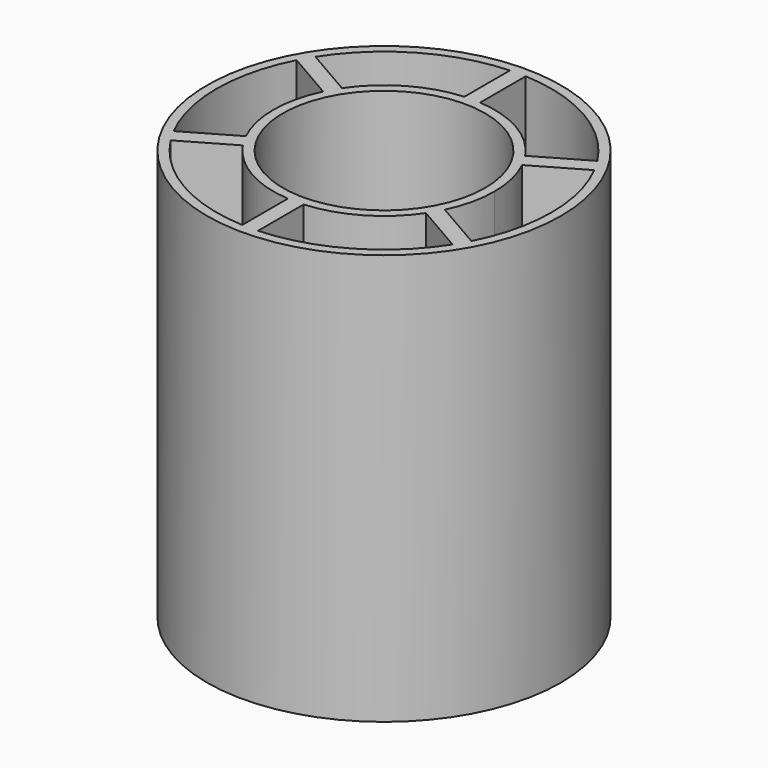
from build123d import *

# Parameters (mm, degrees)
F0_R     = 16
F1_DEPTH = 32.5
F0_R_2   = 28
F2_DEPTH = 32.5


with BuildPart() as f1:
    # F0 (on Top) → F1 (new body, symmetric)
    with BuildSketch(Plane.XY):
        with BuildLine():
            ThreePointArc((15.7417332781, -7.6451182726), (17.0547696022, -3.9223505474), (17.5, 0))
            ThreePointArc((17.5, 0), (17.0547696022, 3.9223505474), (15.7417332781, 7.6451182726))
            ThreePointArc((15.7417332781, 7.6451182726), (15.1554445662, 8.75), (14.4917332781, 9.8101817821))
            ThreePointArc((14.4917332781, 9.8101817821), (8.75, 15.1554445662), (1.25, 17.4553000547))
            ThreePointArc((1.25, 17.4553000547), (0, 17.5), (-1.25, 17.4553000547))
            ThreePointArc((-1.25, 17.4553000547), (-8.75, 15.1554445662), (-14.4917332781, 9.8101817821))
            ThreePointArc((-14.4917332781, 9.8101817821), (-15.1554445662, 8.75), (-15.7417332781, 7.6451182726))
            ThreePointArc((-15.7417332781, 7.6451182726), (-17.5, 0), (-15.7417332781, -7.6451182726))
            ThreePointArc((-15.7417332781, -7.6451182726), (-15.1554445662, -8.75), (-14.4917332781, -9.8101817821))
            ThreePointArc((-14.4917332781, -9.8101817821), (-8.75, -15.1554445662), (-1.25, -17.4553000547))
            ThreePointArc((-1.25, -17.4553000547), (0, -17.5), (1.25, -17.4553000547))
            ThreePointArc((1.25, -17.4553000547), (8.75, -15.1554445662), (14.4917332781, -9.8101817821))
            ThreePointArc((14.4917332781, -9.8101817821), (15.1554445662, -8.75), (15.7417332781, -7.6451182726))
        make_face()
        Circle(F0_R, mode=Mode.SUBTRACT)
    extrude(amount=F1_DEPTH, both=True)



with BuildPart() as f1b:
    # F0 (on Top) → F1, piece 2 (new body, symmetric)
    with BuildSketch(Plane.XY):
        Circle(F0_R_2)
        with BuildLine():
            ThreePointArc((22.2991275734, 14.3177829802), (22.9496732003, 13.25), (23.5491275734, 12.1527194707))
            ThreePointArc((23.5491275734, 12.1527194707), (25.751717231, 6.2529240882), (26.5, 0))
            ThreePointArc((26.5, 0), (25.751717231, -6.2529240882), (23.5491275734, -12.1527194707))
            ThreePointArc((23.5491275734, -12.1527194707), (22.9496732003, -13.25), (22.2991275734, -14.3177829802))
            ThreePointArc((22.2991275734, -14.3177829802), (13.25, -22.9496732003), (1.25, -26.4705024508))
            ThreePointArc((1.25, -26.4705024508), (0, -26.5), (-1.25, -26.4705024508))
            ThreePointArc((-1.25, -26.4705024508), (-13.25, -22.9496732003), (-22.2991275734, -14.3177829802))
            ThreePointArc((-22.2991275734, -14.3177829802), (-22.9496732003, -13.25), (-23.5491275734, -12.1527194707))
            ThreePointArc((-23.5491275734, -12.1527194707), (-26.5, 0), (-23.5491275734, 12.1527194707))
            ThreePointArc((-23.5491275734, 12.1527194707), (-22.9496732003, 13.25), (-22.2991275734, 14.3177829802))
            ThreePointArc((-22.2991275734, 14.3177829802), (-13.25, 22.9496732003), (-1.25, 26.4705024508))
            ThreePointArc((-1.25, 26.4705024508), (0, 26.5), (1.25, 26.4705024508))
            ThreePointArc((1.25, 26.4705024508), (13.25, 22.9496732003), (22.2991275734, 14.3177829802))
        make_face(mode=Mode.SUBTRACT)
    extrude(amount=F1_DEPTH, both=True)


with BuildPart() as f1_1:
    add(f1.part)

    add(f1b.part)  # F2 merges F1b
    # F0 (on Top) → F2 (join, symmetric)
    with BuildSketch(Plane.XY):
        with BuildLine():
            ThreePointArc((-15.7417332781, 7.6451182726), (-15.1554445662, 8.75), (-14.4917332781, 9.8101817821))
            Line((-14.4917332781, 9.8101817821), (-22.2991275734, 14.3177829802))
            ThreePointArc((-22.2991275734, 14.3177829802), (-22.9496732003, 13.25), (-23.5491275734, 12.1527194707))
            Line((-23.5491275734, 12.1527194707), (-15.7417332781, 7.6451182726))
        make_face()
        with BuildLine():
            ThreePointArc((-1.25, 17.4553000547), (0, 17.5), (1.25, 17.4553000547))
            Line((1.25, 17.4553000547), (1.25, 26.4705024508))
            ThreePointArc((1.25, 26.4705024508), (0, 26.5), (-1.25, 26.4705024508))
            Line((-1.25, 26.4705024508), (-1.25, 17.4553000547))
        make_face()
        with BuildLine():
            ThreePointArc((14.4917332781, 9.8101817821), (15.1554445662, 8.75), (15.7417332781, 7.6451182726))
            Line((15.7417332781, 7.6451182726), (23.5491275734, 12.1527194707))
            ThreePointArc((23.5491275734, 12.1527194707), (22.9496732003, 13.25), (22.2991275734, 14.3177829802))
            Line((22.2991275734, 14.3177829802), (14.4917332781, 9.8101817821))
        make_face()
        with BuildLine():
            Line((23.5491275734, -12.1527194707), (15.7417332781, -7.6451182726))
            ThreePointArc((15.7417332781, -7.6451182726), (15.1554445662, -8.75), (14.4917332781, -9.8101817821))
            Line((14.4917332781, -9.8101817821), (22.2991275734, -14.3177829802))
            ThreePointArc((22.2991275734, -14.3177829802), (22.9496732003, -13.25), (23.5491275734, -12.1527194707))
        make_face()
        with BuildLine():
            Line((1.25, -26.4705024508), (1.25, -17.4553000547))
            ThreePointArc((1.25, -17.4553000547), (0, -17.5), (-1.25, -17.4553000547))
            Line((-1.25, -17.4553000547), (-1.25, -26.4705024508))
            ThreePointArc((-1.25, -26.4705024508), (0, -26.5), (1.25, -26.4705024508))
        make_face()
        with BuildLine():
            Line((-22.2991275734, -14.3177829802), (-14.4917332781, -9.8101817821))
            ThreePointArc((-14.4917332781, -9.8101817821), (-15.1554445662, -8.75), (-15.7417332781, -7.6451182726))
            Line((-15.7417332781, -7.6451182726), (-23.5491275734, -12.1527194707))
            ThreePointArc((-23.5491275734, -12.1527194707), (-22.9496732003, -13.25), (-22.2991275734, -14.3177829802))
        make_face()
    extrude(amount=F2_DEPTH, both=True)


solid = f1_1.part
